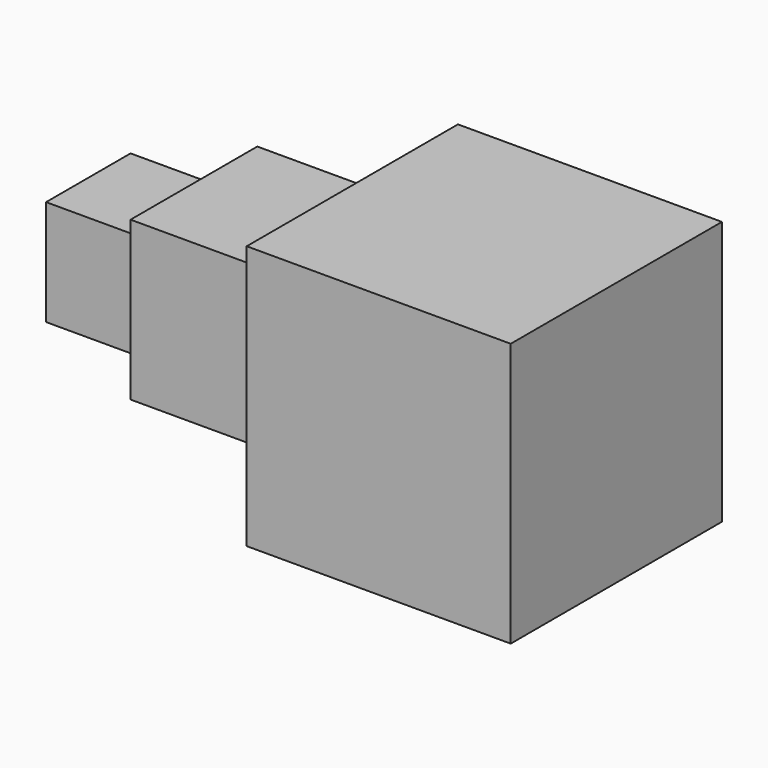
from build123d import *

# Parameters (mm, degrees)
F0_W     = 50
F0_H     = 50
F1_DEPTH = 25
F2_W     = 30
F2_H     = 30
F3_DEPTH = 30
F4_W     = 20
F4_H     = 20
F5_DEPTH = 20


with BuildPart() as f1:
    # F0 (on Front) → F1 (new body, symmetric)
    with BuildSketch(Plane.XZ):
        Rectangle(F0_W, F0_H)
    extrude(amount=F1_DEPTH, both=True)

    # F2 (on face) → F3 (join)
    with BuildSketch(Plane(origin=(-25, 0, 0), x_dir=(0, -1, 0), z_dir=(-1, 0, 0))):
        with Locations((0, 0.612991)):
            Rectangle(F2_W, F2_H)
    extrude(amount=F3_DEPTH)

    # F4 (on face) → F5 (join)
    with BuildSketch(Plane(origin=(-55, 0, 0), x_dir=(0, -1, 0), z_dir=(-1, 0, 0))):
        Rectangle(F4_W, F4_H)
    extrude(amount=F5_DEPTH)


solid = f1.part
